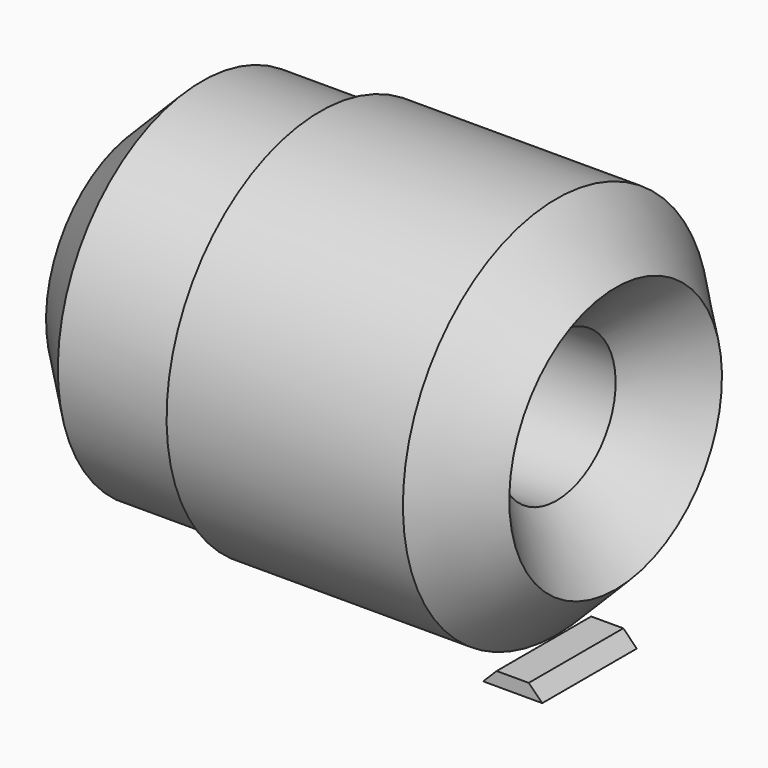
from build123d import *

# Parameters (mm, degrees)
F3_DEPTH = 25.4


with BuildPart() as f1:
    # F0 (on Front) → F1 (revolve)
    with BuildSketch(Plane.XZ):
        Polygon((10.16, -15.875), (0, -26.035), (12.7, -38.735), (38.1, -38.735), (38.1, -41.275), (88.9, -41.275), (101.6, -28.575), (88.9, -15.875), align=None)
    revolve(axis=Axis((51.171116, 0, 0), (1, 0, 0)))


with BuildPart() as f3:
    # F2 (on Front) → F3 (new body)
    with BuildSketch(Plane.XZ):
        Polygon((96.348617, -35.363365), (93.45082, -38.261162), (106.15082, -38.261162), (103.253023, -35.363365), align=None)
    extrude(amount=F3_DEPTH)


solid = Compound([f1.part, f3.part])
